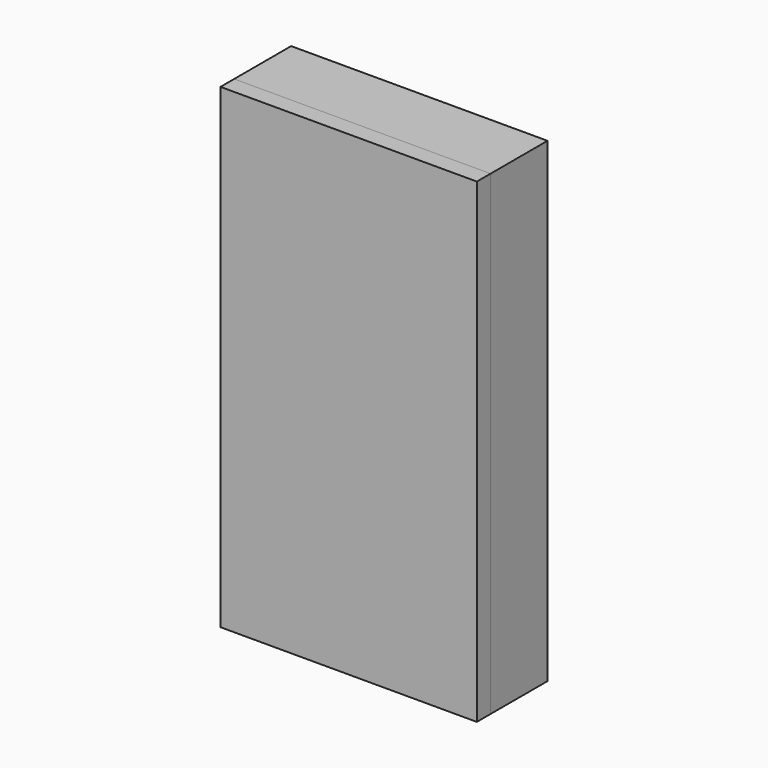
from build123d import *

# Parameters (mm, degrees)
F0_W     = 17.78
F0_H     = 37.338
F1_DEPTH = 1.5875
F3_W     = 22.86
F3_H     = 42.418
F4_DEPTH = 6.35
F5_T     = -2.54
F7_W     = 22.86
F7_H     = 42.418
F8_DEPTH = 2.54


with BuildPart() as f1:
    # F0 (on Front) → F1 (new body)
    with BuildSketch(Plane.XZ):
        with Locations((-0.2455806217, 0.0442041901)):
            Rectangle(F0_W, F0_H)
    extrude(amount=F1_DEPTH)


with BuildPart() as f4:
    # F3 (on offset) → F4 (new body)
    with BuildSketch(Plane(origin=(0, 2.54, 0), x_dir=(-1, 0, 0), z_dir=(0, 1, 0))):
        with Locations((0.2455806217, 0.0442041901)):
            Rectangle(F3_W, F3_H)
    extrude(amount=-F4_DEPTH)

    # F5
    f5_openings = [f4.faces().sort_by_distance(p)[0] for p in [
        (-0.245581, -3.81, 0.044204),
    ]]
    offset(amount=F5_T, openings=f5_openings)


with BuildPart() as f8:
    # F7 (on offset) → F8 (new body)
    with BuildSketch(Plane.XZ.offset(2.794)):
        with Locations((-0.2455806217, 0.0442041901)):
            Rectangle(F7_W, F7_H)
    extrude(amount=F8_DEPTH)

    # F9: cut F4
    add(f4.part, mode=Mode.SUBTRACT)


solid = Compound([f1.part, f4.part, f8.part])
